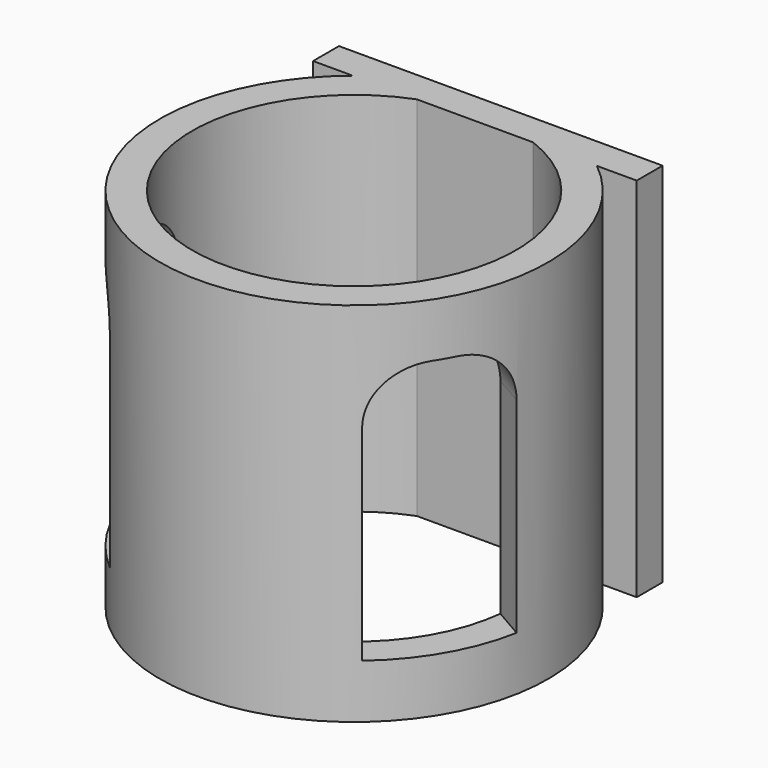
from build123d import *

# Parameters (mm, degrees)
F1_DEPTH  = 34
F9_W      = 6
F9_H      = 24
F10_DEPTH = 10
F11_W     = 6
F11_H     = 24
F12_DEPTH = 10
F13_R     = 5


with BuildPart() as f1:
    # F0 (on Top) → F1 (new body)
    with BuildSketch(Plane.XY):
        with BuildLine():
            Line((-15, 14), (-11.313708, 14))
            ThreePointArc((-11.313708, 14), (0, -18), (11.313708, 14))
            Line((11.313708, 14), (15, 14))
            Line((15, 14), (15, 17))
            Line((15, 17), (-15, 17))
            Line((-15, 17), (-15, 14))
        make_face()
        with BuildLine():
            ThreePointArc((5.385165, 14), (0, -15), (-5.385165, 14))
            Line((-5.385165, 14), (5.385165, 14))
        make_face(mode=Mode.SUBTRACT)
    extrude(amount=F1_DEPTH)

    # F9 (on face) → F10 (cut)
    with BuildSketch(Plane(origin=(-15.588457, -9, 0), x_dir=(0.5, -0.866025, 0), z_dir=(-0.866025, -0.5, 0))):
        with Locations((-3, 17)):
            Rectangle(F9_W, F9_H)
        with Locations((3, 17)):
            Rectangle(F9_W, F9_H)
    extrude(amount=-F10_DEPTH, mode=Mode.SUBTRACT)

    # F11 (on face) → F12 (cut)
    with BuildSketch(Plane(origin=(15.588457, -9, 0), x_dir=(0.5, 0.866025, 0), z_dir=(0.866025, -0.5, 0))):
        with Locations((-3, 17)):
            Rectangle(F11_W, F11_H)
        with Locations((3, 17)):
            Rectangle(F11_W, F11_H)
    extrude(amount=-F12_DEPTH, mode=Mode.SUBTRACT)

    # F13
    f13_edges = [f1.edges().sort_by_distance(p)[0] for p in [
        (16.30141, -2.48342, 29),
        (10.30141, -12.875725, 29),
        (-16.30141, -2.48342, 29),
        (-10.30141, -12.875725, 29),
    ]]
    fillet(f13_edges, radius=F13_R)


solid = f1.part
